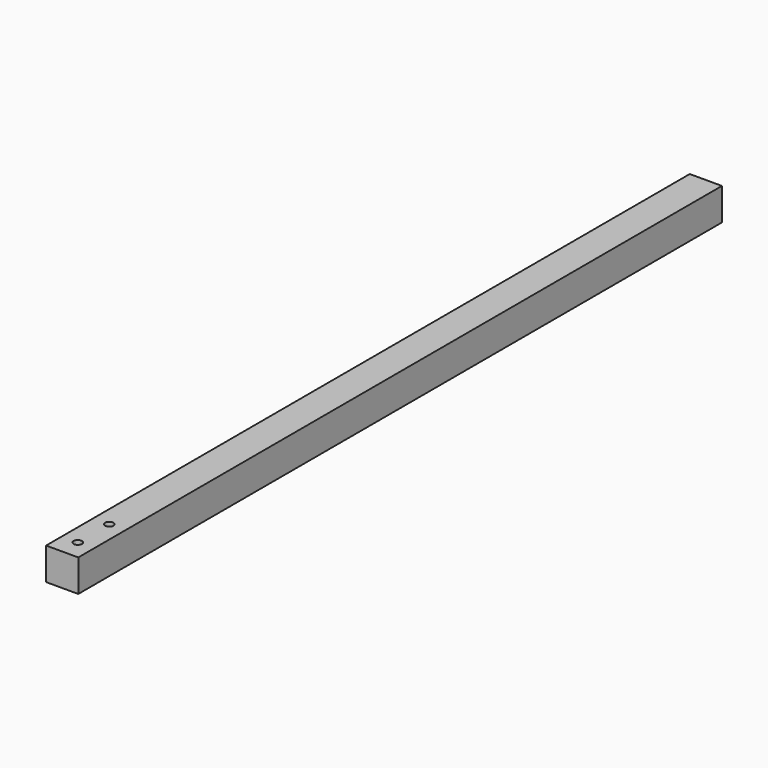
from build123d import *

# Parameters (mm, degrees)
F0_W     = 12
F0_H     = 12
F1_DEPTH = 300
F3_DEPTH = 12.001


with BuildPart() as f1:
    # F0 (on Front) → F1 (new body)
    with BuildSketch(Plane.XZ):
        Rectangle(F0_W, F0_H)
    extrude(amount=-F1_DEPTH)

    # F2 (on face) → F3 (cut, through all)
    with BuildSketch(Plane.XY.offset(6)):
        with BuildLine():
            Line((-1.55, 7.3), (1.55, 7.3))
            ThreePointArc((1.55, 7.3), (0, 8.85), (-1.55, 7.3))
        make_face()
        with BuildLine():
            ThreePointArc((-1.55, 22), (0, 20.45), (1.55, 22))
            Line((1.55, 22), (-1.55, 22))
        make_face()
        with BuildLine():
            Line((-1.55, 22), (1.55, 22))
            ThreePointArc((1.55, 22), (0, 23.55), (-1.55, 22))
        make_face()
        with BuildLine():
            ThreePointArc((-1.55, 7.3), (0, 5.75), (1.55, 7.3))
            Line((1.55, 7.3), (-1.55, 7.3))
        make_face()
    extrude(amount=-F3_DEPTH, mode=Mode.SUBTRACT)


solid = f1.part
